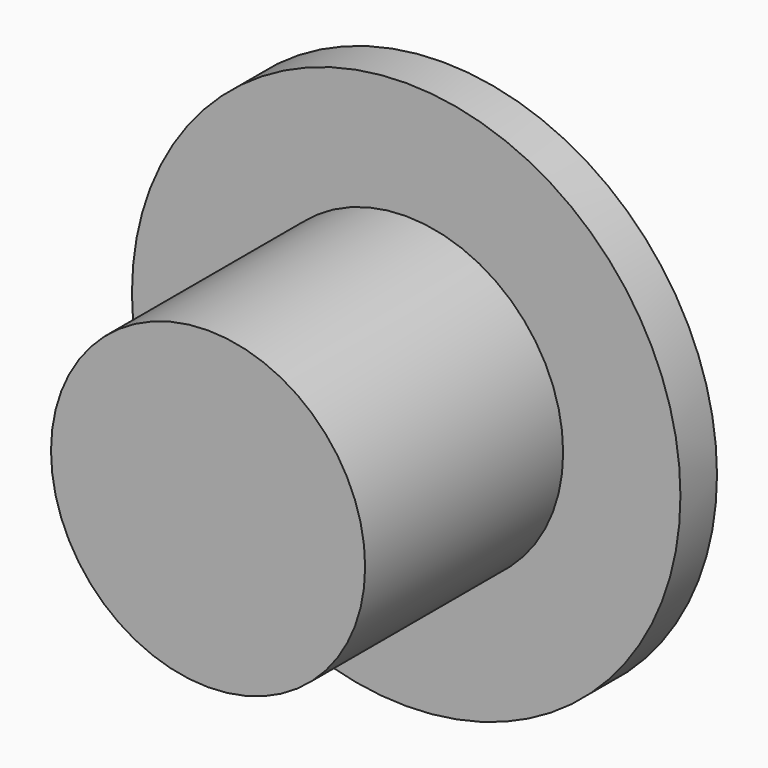
from build123d import *

# Parameters (mm, degrees)
F3_R     = 311.825
F4_DEPTH = 45
F5_R     = 206.25
F6_DEPTH = 385
F7_R     = 360.125
F8_DEPTH = 60


with BuildPart() as f4:
    # F3 (on Front) → F4 (new body)
    with BuildSketch(Plane.XZ):
        with Locations((0.15, 0)):
            Circle(F3_R)
    extrude(amount=-F4_DEPTH)

    # F5 (on face) → F6 (join)
    with BuildSketch(Plane.XZ):
        with Locations((0.3, 0)):
            Circle(F5_R)
    extrude(amount=F6_DEPTH)

    # F7 (on face) → F8 (join)
    with BuildSketch(Plane.XZ):
        with Locations((0.45, 0)):
            Circle(F7_R)
    extrude(amount=F8_DEPTH)


solid = f4.part
